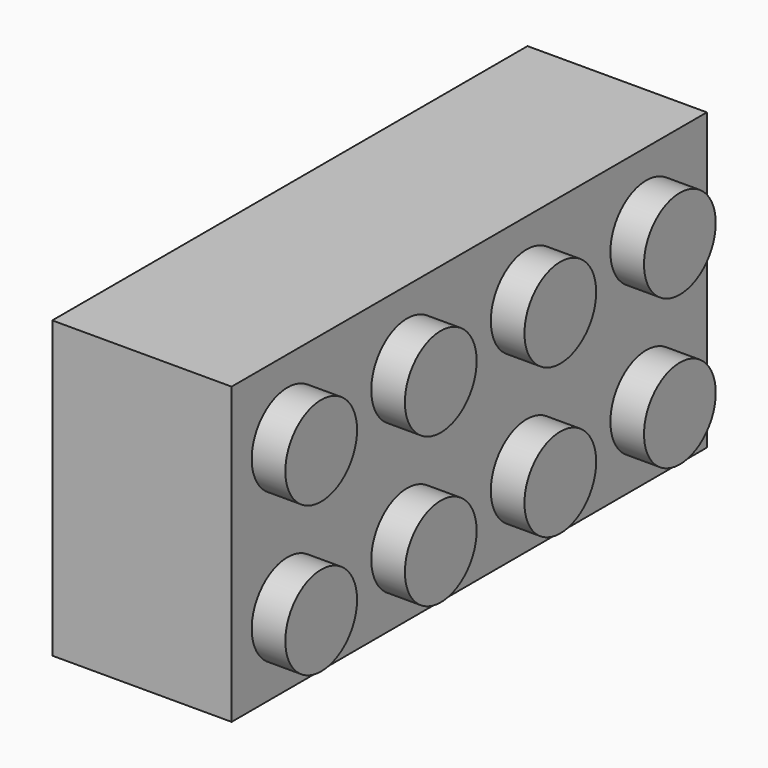
from build123d import *

# Parameters (mm, degrees)
F0_W     = 318
F0_H     = 158
F1_DEPTH = 96
F2_R     = 24
F3_DEPTH = 18


with BuildPart() as f1:
    # F0 (on Right) → F1 (new body)
    with BuildSketch(Plane.YZ):
        with Locations((159, 79)):
            Rectangle(F0_W, F0_H)
    extrude(amount=F1_DEPTH)

    # F2 (on face) → F3 (join)
    with BuildSketch(Plane.YZ.offset(96)):
        with Locations((37.443582, 118.436837)):
            Circle(F2_R)
        with Locations((117.443582, 118.436837)):
            Circle(F2_R)
        with Locations((197.443582, 118.436837)):
            Circle(F2_R)
        with Locations((277.443582, 118.436837)):
            Circle(F2_R)
        with Locations((277.443582, 38.436837)):
            Circle(F2_R)
        with Locations((197.443582, 38.436837)):
            Circle(F2_R)
        with Locations((117.443582, 38.436837)):
            Circle(F2_R)
        with Locations((37.443582, 38.436837)):
            Circle(F2_R)
    extrude(amount=F3_DEPTH)


solid = f1.part
